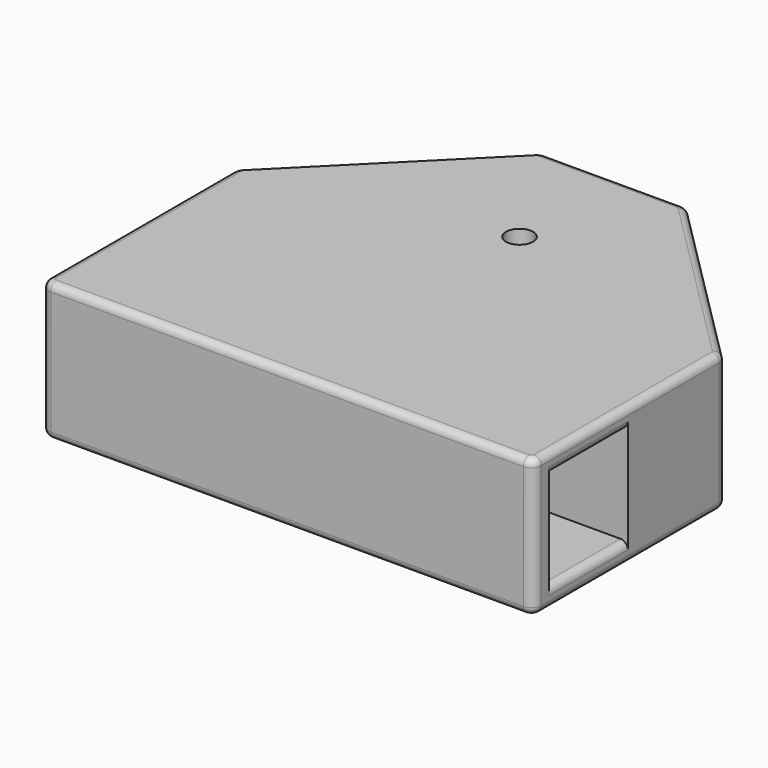
from build123d import *

# Parameters (mm, degrees)
PAD132_DEPTH       = 14
SKETCH600_W        = 100
SKETCH600_H        = 20
SKETCH600_W_2      = 20
SKETCH600_H_2      = 50
POCKET428_DEPTH    = 10
CHAMFER021_1_SIZE2 = 4
CHAMFER021_1_SIZE  = 1
CHAMFER021_2_SIZE2 = 4
CHAMFER021_2_SIZE  = 1
FILLET021_R        = 8
FILLET022_R        = 1.5
SKETCH601_R        = 2.75
POCKET429_DEPTH    = 14.001


with BuildPart() as part:
    # Sketch599 → Pad132 (new body, symmetric)
    with BuildSketch(Plane.XY):
        with BuildLine():
            Line((-48, -14), (48, -14))
            ThreePointArc((48, -14), (49.414214, -13.414214), (50, -12))
            Line((50, -12), (50, 33.171573))
            ThreePointArc((50, 33.171573), (49.847759, 33.93694), (49.414214, 34.585786))
            Line((49.414214, 34.585786), (14.585786, 69.414214))
            ThreePointArc((14.585786, 69.414214), (13.93694, 69.847759), (13.171573, 70))
            Line((13.171573, 70), (-14, 70))
            Line((-14, 70), (-50, 34))
            Line((-50, 34), (-50, -12))
            ThreePointArc((-50, -12), (-49.414214, -13.414214), (-48, -14))
        make_face()
    extrude(amount=PAD132_DEPTH, both=True)

    # Sketch600 → Pocket428 (cut, symmetric)
    with BuildSketch(Plane.XY):
        Rectangle(SKETCH600_W, SKETCH600_H)
        with Locations((0, 45)):
            Rectangle(SKETCH600_W_2, SKETCH600_H_2)
    extrude(amount=POCKET428_DEPTH, both=True, mode=Mode.SUBTRACT)

    # Chamfer021 1
    chamfer021_1_edges = [part.edges().sort_by_distance(p)[0] for p in [
        (-50, -10, 0),
    ]]
    chamfer021_1_side = part.faces().sort_by_distance((-50, 15.954955, 0))[0]
    chamfer(chamfer021_1_edges, length=CHAMFER021_1_SIZE, length2=CHAMFER021_1_SIZE2, reference=chamfer021_1_side)

    # Chamfer021 2
    chamfer021_2_edges = [part.edges().sort_by_distance(p)[0] for p in [
        (10, 70, 0),
    ]]
    chamfer021_2_side = part.faces().sort_by_distance((12.781407, 70, 0))[0]
    chamfer(chamfer021_2_edges, length=CHAMFER021_2_SIZE, length2=CHAMFER021_2_SIZE2, reference=chamfer021_2_side)

    # Fillet021
    fillet021_edges = [part.edges().sort_by_distance(p)[0] for p in [
        (10, 66, 0),
        (-46, -10, 0),
    ]]
    fillet(fillet021_edges, radius=FILLET021_R)

    # Fillet022
    fillet022_edges = [part.edges().sort_by_distance(p)[0] for p in [
        (-0.414214, 70, 14),
        (-0.414214, 70, -14),
        (-50, 0, 10),
        (-50, 0, -10),
        (0, 70, 10),
        (0, 70, -10),
        (50, 0, -10),
        (50, 0, 10),
    ]]
    fillet(fillet022_edges, radius=FILLET022_R)

    # Sketch601 → Pocket429 (cut, through all)
    with BuildSketch(Plane.XY):
        with Locations((0, 45)):
            Circle(SKETCH601_R)
    extrude(amount=POCKET429_DEPTH, mode=Mode.SUBTRACT)


with BuildPart() as part_1:
    # Body198 placement: moved
    add(part.part.moved(Location((0, -90, -6))))


solid = part_1.part
